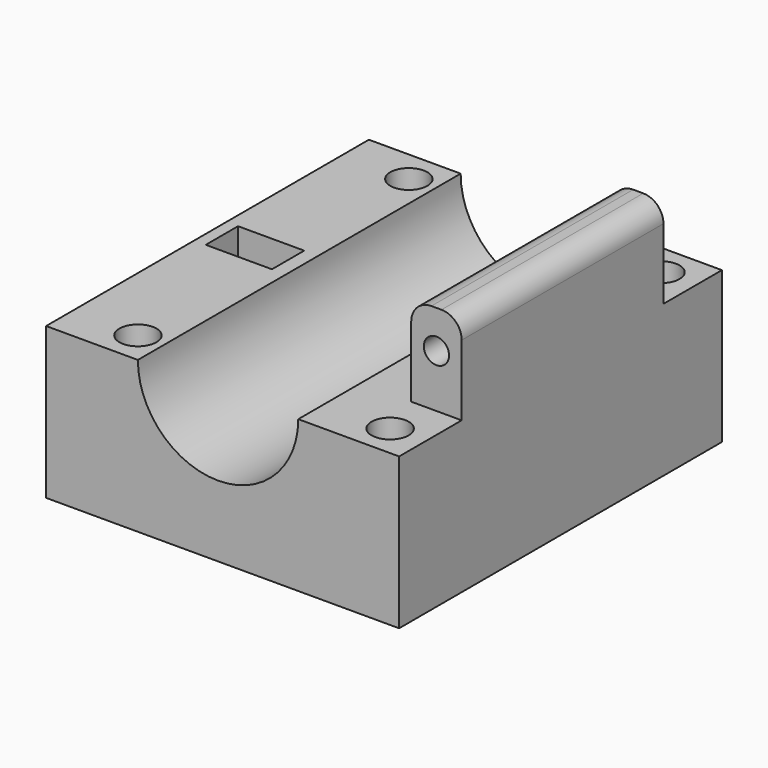
from build123d import *

# Parameters (mm, degrees)
F1_DEPTH       = 101.6
F3_D           = 6.35
F3_CBORE_D     = 9.3345
F3_CBORE_DEPTH = 24.4602
F4_W           = 12.7
F4_H           = 63.5
F5_DEPTH       = 22.86
F7_D           = 6.35
F8_R           = 5.08
F9_W           = 16.6624
F9_H           = 10.16
F10_DEPTH      = 19.177


with BuildPart() as f1:
    # F0 (on Front) → F1 (new body)
    with BuildSketch(Plane.XZ):
        with BuildLine():
            Line((0, 38.1), (0, 0))
            Line((0, 0), (88.9, 0))
            Line((88.9, 0), (88.9, 38.1))
            Line((88.9, 38.1), (63.5, 38.1))
            ThreePointArc((63.5, 38.1), (43.307, 17.907), (23.114, 38.1))
            Line((23.114, 38.1), (0, 38.1))
        make_face()
    extrude(amount=-F1_DEPTH)

    # F3 (through all)
    with Locations(Plane.XY.offset(38.1)):
        with Locations((16.5989, 8.1661), (16.5989, 93.4339), (80.0989, 93.4339), (80.0989, 8.1661)):
            CounterBoreHole(F3_D / 2, F3_CBORE_D / 2, F3_CBORE_DEPTH)

    # F4 (on face) → F5 (join)
    with BuildSketch(Plane.XY.offset(38.1)):
        with Locations((82.55, 51.435)):
            Rectangle(F4_W, F4_H)
    extrude(amount=F5_DEPTH)

    # F7 (through all)
    with Locations(Plane.XZ.offset(-19.685)):
        with Locations((82.55, 51.435)):
            Hole(F7_D / 2)

    # F8
    f8_edges = [f1.edges().sort_by_distance(p)[0] for p in [
        (76.2, 51.435, 60.96),
        (88.9, 51.435, 60.96),
    ]]
    fillet(f8_edges, radius=F8_R)

    # F9 (on face) → F10 (cut)
    with BuildSketch(Plane.XY.offset(38.1)):
        with Locations((11.2522, 51.689)):
            Rectangle(F9_W, F9_H)
    extrude(amount=-F10_DEPTH, mode=Mode.SUBTRACT)


solid = f1.part
